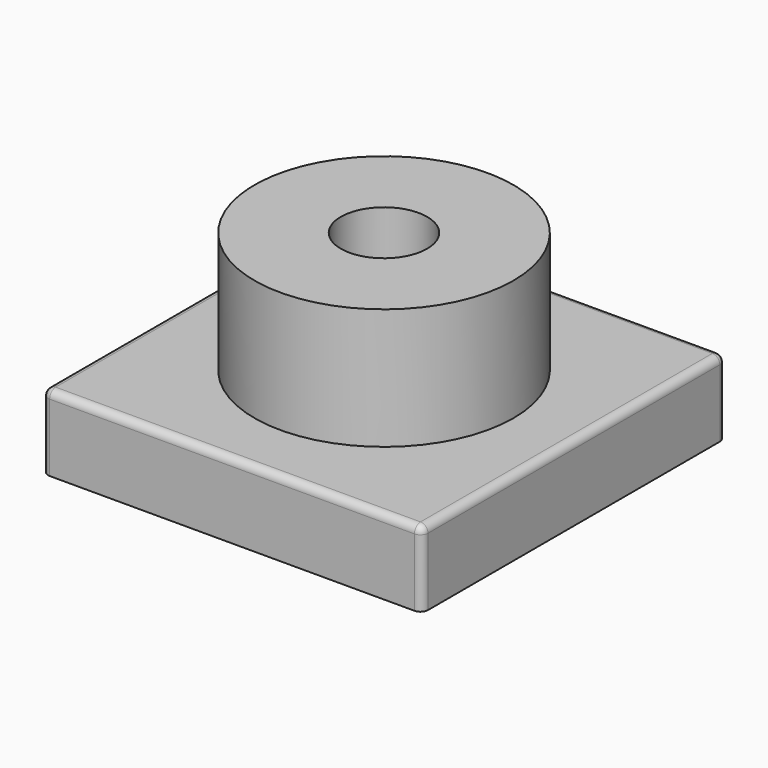
from build123d import *

# Parameters (mm, degrees)
F0_W     = 256.570498
F0_H     = 256.570498
F0_R     = 29.163007
F1_DEPTH = 50.8
F2_R     = 5.08
F3_R     = 5.08
F4_R     = 5.08
F5_R     = 5.08
F6_R     = 87.489022
F6_R_2   = 29.163007
F7_DEPTH = 132.588


with BuildPart() as f1:
    # F0 (on Top) → F1 (new body)
    with BuildSketch(Plane.XY):
        Rectangle(F0_W, F0_H)
        Circle(F0_R, mode=Mode.SUBTRACT)
    extrude(amount=F1_DEPTH)

    # F2
    f2_edges = [f1.edges().sort_by_distance(p)[0] for p in [
        (0, 128.285249, 50.8),
    ]]
    fillet(f2_edges, radius=F2_R)

    # F3
    f3_edges = [f1.edges().sort_by_distance(p)[0] for p in [
        (128.285249, -2.54, 50.8),
    ]]
    fillet(f3_edges, radius=F3_R)

    # F4
    f4_edges = [f1.edges().sort_by_distance(p)[0] for p in [
        (-2.54, -128.285249, 50.8),
    ]]
    fillet(f4_edges, radius=F4_R)

    # F5
    f5_edges = [f1.edges().sort_by_distance(p)[0] for p in [
        (-128.285249, 0, 50.8),
    ]]
    fillet(f5_edges, radius=F5_R)

    # F6 (on Top) → F7 (join)
    with BuildSketch(Plane.XY):
        Circle(F6_R)
        Circle(F6_R_2, mode=Mode.SUBTRACT)
    extrude(amount=F7_DEPTH)


solid = f1.part
